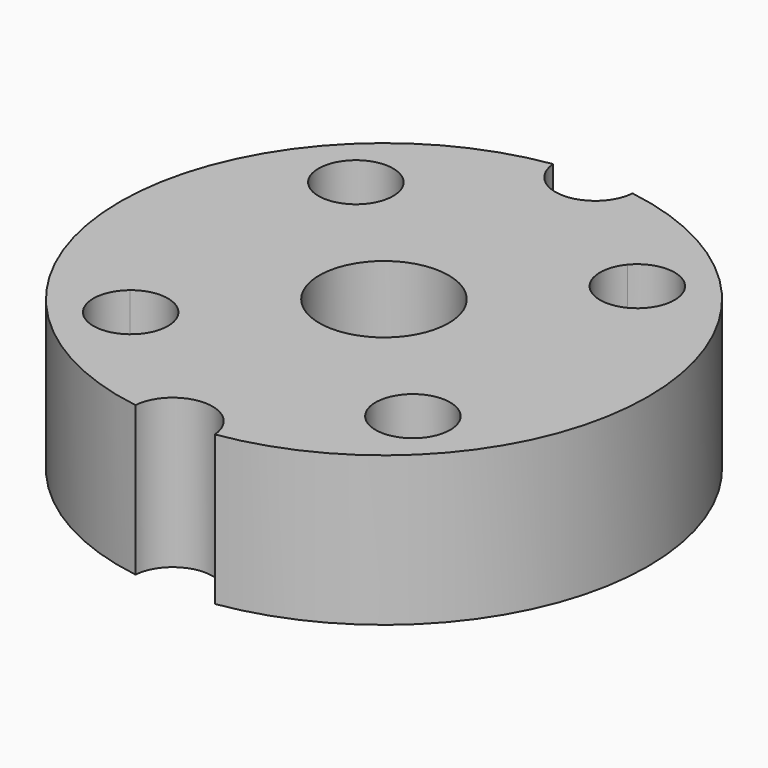
from build123d import *

# Parameters (mm, degrees)
F0_R     = 25
F0_R_2   = 13
F1_DEPTH = 30


with BuildPart() as f1:
    # F0 (on Top) → F1 (new body)
    with BuildSketch(Plane.XY):
        with BuildLine():
            ThreePointArc((7.97724, 52.462315), (0, 45.065345), (-7.97724, 52.462315))
            ThreePointArc((-7.97724, 52.462315), (-53.065345, 0), (-7.97724, -52.462315))
            ThreePointArc((-7.97724, -52.462315), (0, -45.065345), (7.97724, -52.462315))
            ThreePointArc((7.97724, -52.462315), (53.065345, 0), (7.97724, 52.462315))
        make_face()
        with BuildLine():
            ThreePointArc((33.067031, 22.507143), (39.999958, 0.057782), (33.131918, -22.411515))
            ThreePointArc((33.131918, -22.411515), (35.148029, -25.000513), (35.86587, -28.202437))
            ThreePointArc((35.86587, -28.202437), (30.917864, -35.254906), (22.602583, -33.001867))
            ThreePointArc((22.602583, -33.001867), (0.057782, -39.999958), (-22.507143, -33.067031))
            ThreePointArc((-22.507143, -33.067031), (-33.587572, -33.587572), (-33.067031, -22.507143))
            ThreePointArc((-33.067031, -22.507143), (-40, 0), (-33.067031, 22.507143))
            ThreePointArc((-33.067031, 22.507143), (-33.587572, 33.587572), (-22.507143, 33.067031))
            ThreePointArc((-22.507143, 33.067031), (0, 40), (22.507143, 33.067031))
            ThreePointArc((22.507143, 33.067031), (30.826075, 35.34042), (35.784271, 28.284271))
            ThreePointArc((35.784271, 28.284271), (35.071049, 25.092148), (33.067031, 22.507143))
        make_face(mode=Mode.SUBTRACT)
        with BuildLine():
            ThreePointArc((22.602583, -33.001867), (23.047269, -22.91448), (33.131918, -22.411515))
            ThreePointArc((33.131918, -22.411515), (39.999958, 0.057782), (33.067031, 22.507143))
            ThreePointArc((33.067031, 22.507143), (22.98097, 22.98097), (22.507143, 33.067031))
            ThreePointArc((22.507143, 33.067031), (0, 40), (-22.507143, 33.067031))
            ThreePointArc((-22.507143, 33.067031), (-21.228123, 30.826075), (-20.784271, 28.284271))
            ThreePointArc((-20.784271, 28.284271), (-25.092148, 21.497494), (-33.067031, 22.507143))
            ThreePointArc((-33.067031, 22.507143), (-40, 0), (-33.067031, -22.507143))
            ThreePointArc((-33.067031, -22.507143), (-25.092148, -21.497494), (-20.784271, -28.284271))
            ThreePointArc((-20.784271, -28.284271), (-21.228123, -30.826075), (-22.507143, -33.067031))
            ThreePointArc((-22.507143, -33.067031), (0.057782, -39.999958), (22.602583, -33.001867))
        make_face()
        Circle(F0_R, mode=Mode.SUBTRACT)
        Circle(F0_R)
        Circle(F0_R_2, mode=Mode.SUBTRACT)
    extrude(amount=F1_DEPTH)


solid = f1.part
